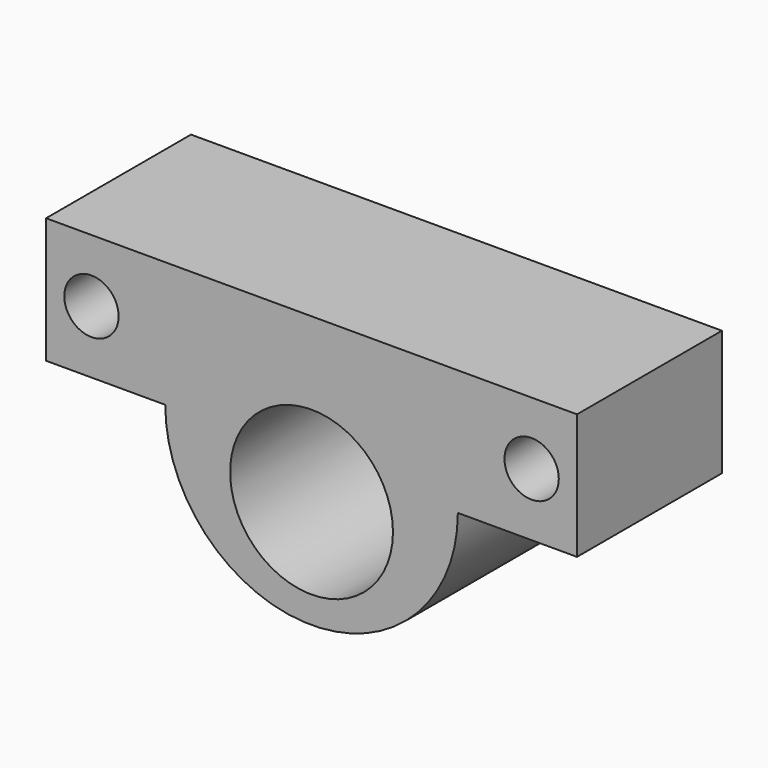
from build123d import *

# Parameters (mm, degrees)
F1_DEPTH      = 6.35
F1_DEPTH_BACK = 6.35
F2_R          = 1.90452
F3_DEPTH      = 15.357033
F4_DEPTH      = 14.148086
F5_R          = 5.708941
F6_DEPTH      = 15.330171


with BuildPart() as f1:
    # F0 (on Front) → F1 (new body, two sides)
    with BuildSketch(Plane.XZ) as f1_sk:
        with BuildLine():
            Line((10.257333, -4.399853), (18.612302, -4.399853))
            Line((18.612302, -4.399853), (18.612302, 4.399853))
            Line((18.612302, 4.399853), (-18.612302, 4.399853))
            Line((-18.612302, 4.399853), (-18.612302, -4.399853))
            Line((-18.612302, -4.399853), (-10.257333, -4.399853))
            ThreePointArc((-10.257333, -4.399853), (0, -14.657186), (10.257333, -4.399853))
        make_face()
    extrude(amount=F1_DEPTH)
    extrude(f1_sk.sketch, amount=-F1_DEPTH_BACK)

    # F2 (on face) → F3 (cut)
    with BuildSketch(Plane.XZ.offset(6.35)):
        with Locations((-15.430572, 0)):
            Circle(F2_R)
    extrude(amount=-F3_DEPTH, mode=Mode.SUBTRACT)

    # F2 (on face) → F4 (cut)
    with BuildSketch(Plane.XZ.offset(6.35)):
        with Locations((15.430572, 0)):
            Circle(F2_R)
    extrude(amount=-F4_DEPTH, mode=Mode.SUBTRACT)

    # F5 (on face) → F6 (cut)
    with BuildSketch(Plane.XZ.offset(6.35)):
        with Locations((0, -7.068473)):
            Circle(F5_R)
    extrude(amount=-F6_DEPTH, mode=Mode.SUBTRACT)


solid = f1.part
